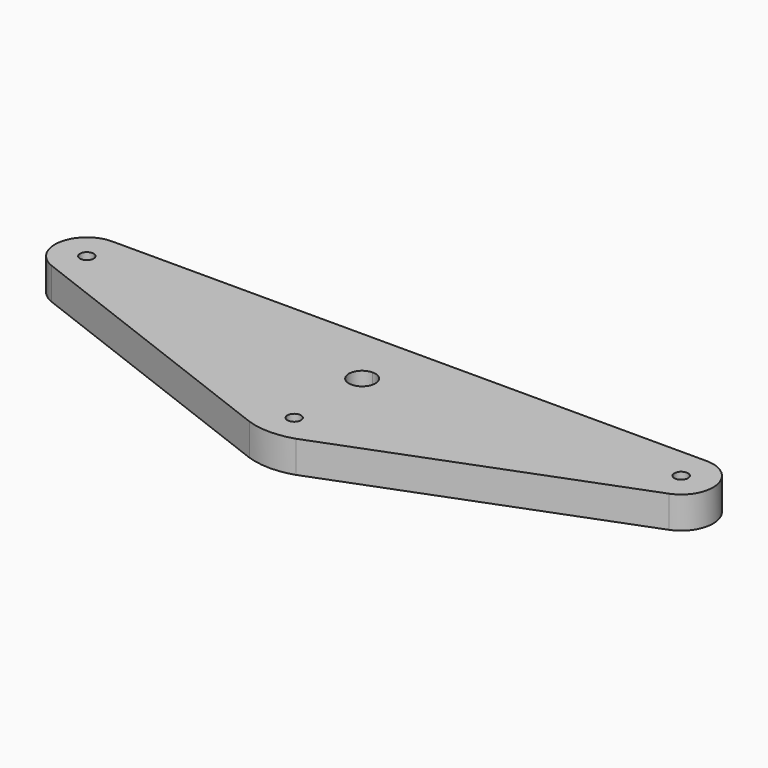
from build123d import *

# Parameters (mm, degrees)
F0_R     = 0.508
F1_DEPTH = 2.38125


with BuildPart() as f1:
    # F0 (on Top) → F1 (new body)
    with BuildSketch(Plane.XY):
        with BuildLine():
            ThreePointArc((0.9906, 0), (0.70046, 0.70046), (0, 0.9906))
            ThreePointArc((0, 0.9906), (-0.70046, -0.70046), (0.9906, 0))
        make_face()
        with BuildLine():
            add(Edge.make_bspline(
                [(23.077335, -0.177674), (21.532068, -0.770026), (17.205456, -2.428561), (10.097499, -5.153278), (4.534809, -7.285642), (1.753464, -8.351825)],
                knots=[3.971353, 3.971353, 3.971353, 3.971353, 8.936086, 17.872172, 26.808257, 26.808257, 26.808257, 26.808257], degree=3))
            ThreePointArc((23.077335, -0.177674), (24.566476, 2.479216), (22.225, 4.427059))
            Line((22.225, 4.427059), (0, 4.427059))
            Line((0, 4.427059), (-22.225, 4.427059))
            ThreePointArc((-22.225, 4.427059), (-24.566476, 2.479216), (-23.077335, -0.177674))
            add(Edge.make_bspline(
                [(-23.077335, -0.177674), (-21.532068, -0.770026), (-17.205456, -2.428561), (-10.097499, -5.153278), (-4.534809, -7.285642), (-1.753464, -8.351825)],
                knots=[3.971353, 3.971353, 3.971353, 3.971353, 8.936086, 17.872172, 26.808257, 26.808257, 26.808257, 26.808257], degree=3))
            ThreePointArc((-1.753464, -8.351825), (0, -8.640989), (1.753464, -8.351825))
        make_face()
        with Locations((0, -6.35)):
            Circle(F0_R, mode=Mode.SUBTRACT)
        with BuildLine():
            ThreePointArc((0.9906, 0), (-0.70046, -0.70046), (0, 0.9906))
            ThreePointArc((0, 0.9906), (0.70046, 0.70046), (0.9906, 0))
        make_face(mode=Mode.SUBTRACT)
        with Locations((-22.225, 2.045809)):
            Circle(F0_R, mode=Mode.SUBTRACT)
        with Locations((22.225, 2.045809)):
            Circle(F0_R, mode=Mode.SUBTRACT)
    extrude(amount=F1_DEPTH)


solid = f1.part
